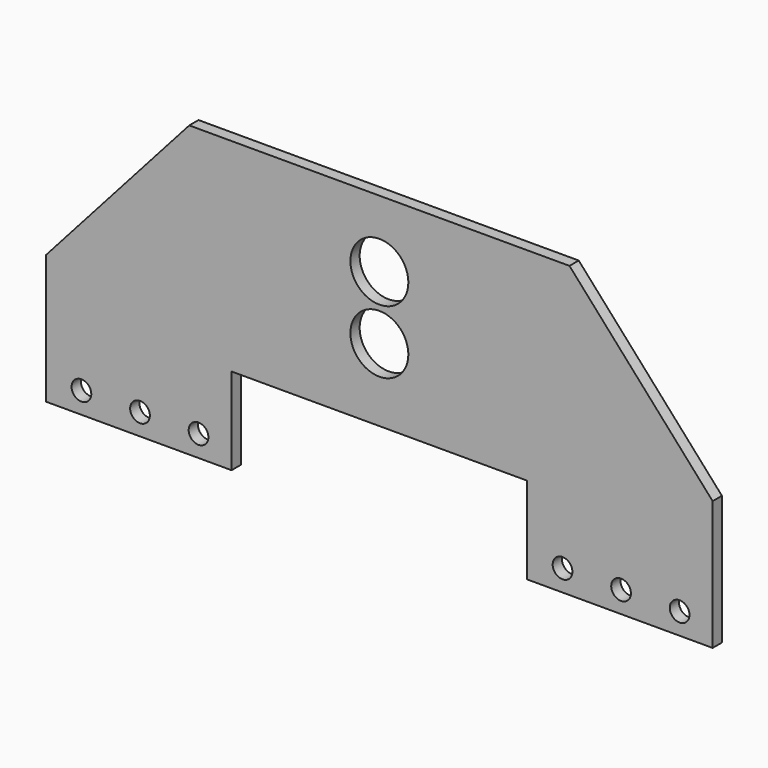
from build123d import *

# Parameters (mm, degrees)
F0_R     = 2.159
F0_R_2   = 6.35
F1_DEPTH = 2.54


with BuildPart() as f1:
    # F0 (on Front) → F1 (new body)
    with BuildSketch(Plane.XZ):
        Polygon((73.025, -3.429), (41.656, 31.75), (32.385, 31.75), (-32.385, 31.75), (-41.656, 31.75), (-73.025, -3.429), (-73.025, -12.7), (-73.025, -31.75), (-32.385, -31.75), (-32.385, -12.7), (32.385, -12.7), (32.385, -31.75), (73.025, -31.75), (73.025, -12.7), align=None)
        with Locations((-65.278, -27.051)):
            Circle(F0_R, mode=Mode.SUBTRACT)
        with Locations((-52.451, -27.051)):
            Circle(F0_R, mode=Mode.SUBTRACT)
        with Locations((-39.624, -27.051)):
            Circle(F0_R, mode=Mode.SUBTRACT)
        with Locations((40.132, -27.051)):
            Circle(F0_R, mode=Mode.SUBTRACT)
        with Locations((52.959, -27.051)):
            Circle(F0_R, mode=Mode.SUBTRACT)
        with Locations((65.786, -27.051)):
            Circle(F0_R, mode=Mode.SUBTRACT)
        with Locations((0, 3.175)):
            Circle(F0_R_2, mode=Mode.SUBTRACT)
        with Locations((0, 17.0688)):
            Circle(F0_R_2, mode=Mode.SUBTRACT)
    extrude(amount=F1_DEPTH)


solid = f1.part
